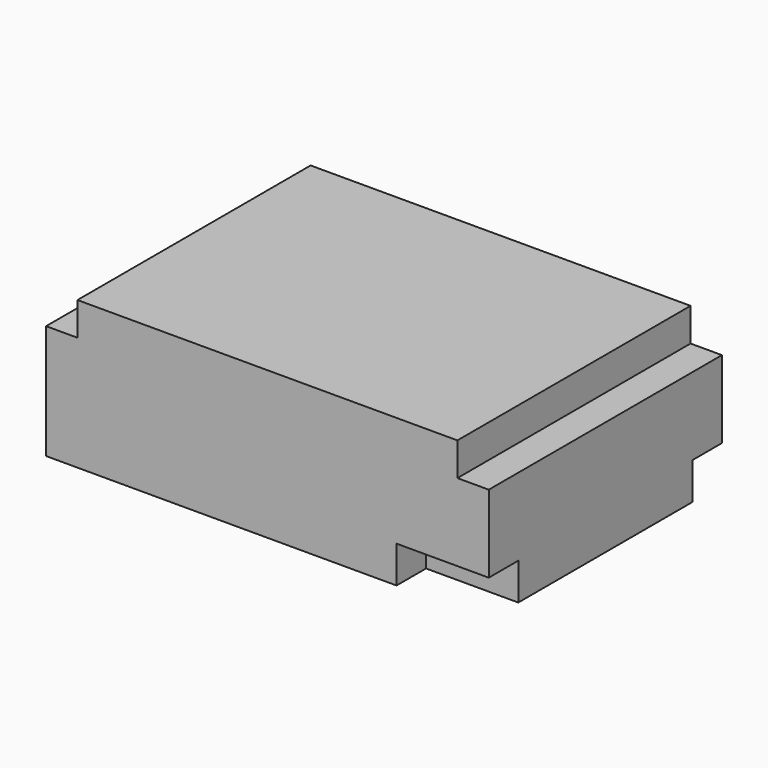
from build123d import *

# Parameters (mm, degrees)
SKETCH_W        = 120
SKETCH_H        = 79
PAD_DEPTH       = 31
SKETCH001_W     = 103
SKETCH001_H     = 79
PAD001_DEPTH    = 9
SKETCH003_W     = 25
SKETCH003_H     = 10
POCKET_DEPTH    = 10
SKETCH004_W     = 25
SKETCH004_H     = 10
POCKET001_DEPTH = 10


with BuildPart() as part:
    # Sketch → Pad (new body)
    with BuildSketch(Plane.XY):
        Rectangle(SKETCH_W, SKETCH_H)
    extrude(amount=PAD_DEPTH)

    # Sketch001 → Pad001 (join)
    with BuildSketch(Plane.XY.offset(31)):
        Rectangle(SKETCH001_W, SKETCH001_H)
    extrude(amount=PAD001_DEPTH)

    # Sketch003 (on Face4 of Pad001) → Pocket (cut)
    with BuildSketch(Plane(origin=(0, 0, 0), x_dir=(1, 0, 0), z_dir=(0, 0, -1))):
        with Locations((47.5, -34.5)):
            Rectangle(SKETCH003_W, SKETCH003_H)
    extrude(amount=-POCKET_DEPTH, mode=Mode.SUBTRACT)

    # Sketch004 (on Face2 of Pocket) → Pocket001 (cut)
    with BuildSketch(Plane(origin=(0, 0, 0), x_dir=(1, 0, 0), z_dir=(0, 0, -1))):
        with Locations((47.5, 34.5)):
            Rectangle(SKETCH004_W, SKETCH004_H)
    extrude(amount=-POCKET001_DEPTH, mode=Mode.SUBTRACT)


solid = part.part
